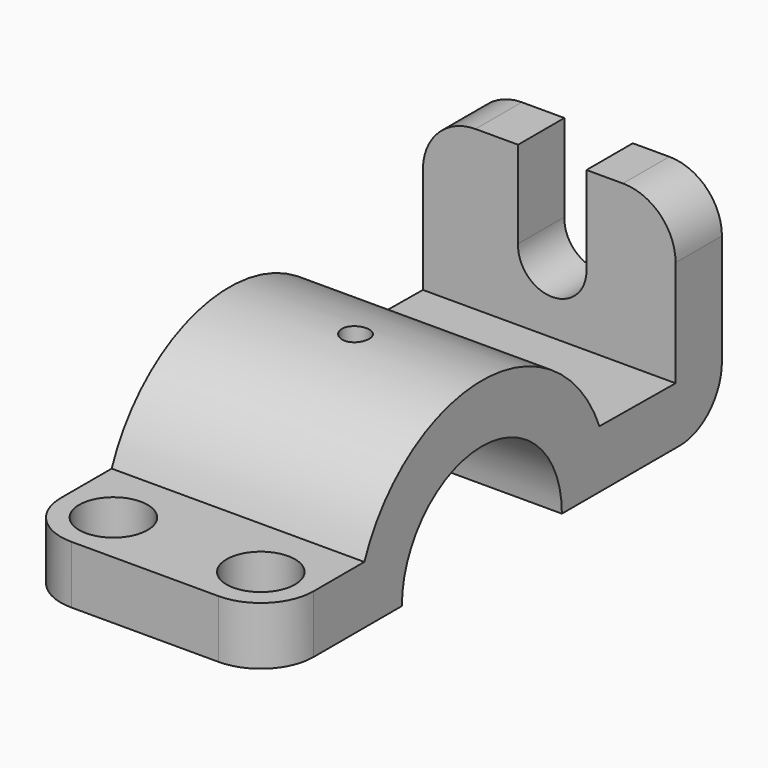
from build123d import *

# Parameters (mm, degrees)
F1_DEPTH  = 48
F2_R      = 10
F3_R      = 10
F5_D      = 13
F8_DEPTH  = 25
F6_R      = 2.5
F9_DEPTH  = 25
F10_R     = 2.5883727543
F11_DEPTH = 35


with BuildPart() as f1:
    # F0 (on Right) → F1 (new body)
    with BuildSketch(Plane.YZ):
        with BuildLine():
            ThreePointArc((27.9105714739, 11), (29.4730143031, 5.5983415304), (30, 0))
            Line((30, 0), (57, 0))
            Line((57, 0), (57, 41))
            Line((57, 41), (46, 41))
            Line((46, 41), (46, 10.8391446993))
            Line((46, 10.8391446993), (27.9105714739, 11))
        make_face()
        with BuildLine():
            Line((-50, 0), (-30, 0))
            ThreePointArc((-30, 0), (-29.4730143031, 5.5983415304), (-27.9105714739, 11))
            Line((-27.9105714739, 11), (-50, 11))
            Line((-50, 11), (-50, 0))
        make_face()
        with BuildLine():
            ThreePointArc((-19, 0), (0, 19), (19, 0))
            Line((19, 0), (30, 0))
            ThreePointArc((30, 0), (29.4730143031, 5.5983415304), (27.9105714739, 11))
            ThreePointArc((27.9105714739, 11), (0, 30), (-27.9105714739, 11))
            ThreePointArc((-27.9105714739, 11), (-29.4730143031, 5.5983415304), (-30, 0))
            Line((-30, 0), (-19, 0))
        make_face()
    extrude(amount=F1_DEPTH)

    # F2
    f2_edges = [f1.edges().sort_by_distance(p)[0] for p in [
        (0, -50, 5.5),
    ]]
    fillet(f2_edges, radius=F2_R)

    # F3
    f3_edges = [f1.edges().sort_by_distance(p)[0] for p in [
        (48, -50, 5.5),
        (48, 51.5, 41),
        (0, 51.5, 41),
        (24, 57, 0),
    ]]
    fillet(f3_edges, radius=F3_R)

    # F5 (through all)
    with Locations(Plane.XY.offset(11)):
        with Locations((38, -40), (10, -40)):
            Hole(F5_D / 2)

    # F7 (on face) → F8 (cut)
    with BuildSketch(Plane(origin=(0, 57, 0), x_dir=(-1, 0, 0), z_dir=(0, 1, 0))):
        with BuildLine():
            Line((-31.0717061657, 41), (-31.0717061657, 24.151092889))
            ThreePointArc((-31.0717061657, 24.151092889), (-24.4338531361, 17.6483010112), (-18.0777366792, 24.4267358331))
            Line((-18.0777366792, 24.4267358331), (-18.0777366792, 41))
            Line((-18.0777366792, 41), (-31.0717061657, 41))
        make_face()
    extrude(amount=-F8_DEPTH, mode=Mode.SUBTRACT)

    # F6 (on Top) → F9 (cut)
    with BuildSketch(Plane.XY):
        with Locations((23.1874617344, 0)):
            Circle(F6_R)
    extrude(amount=-F9_DEPTH, mode=Mode.SUBTRACT)

    # F10 (on Top) → F11 (cut)
    with BuildSketch(Plane.XY):
        with Locations((24.0040104836, 0)):
            Circle(F10_R)
    extrude(amount=F11_DEPTH, mode=Mode.SUBTRACT)


solid = f1.part
